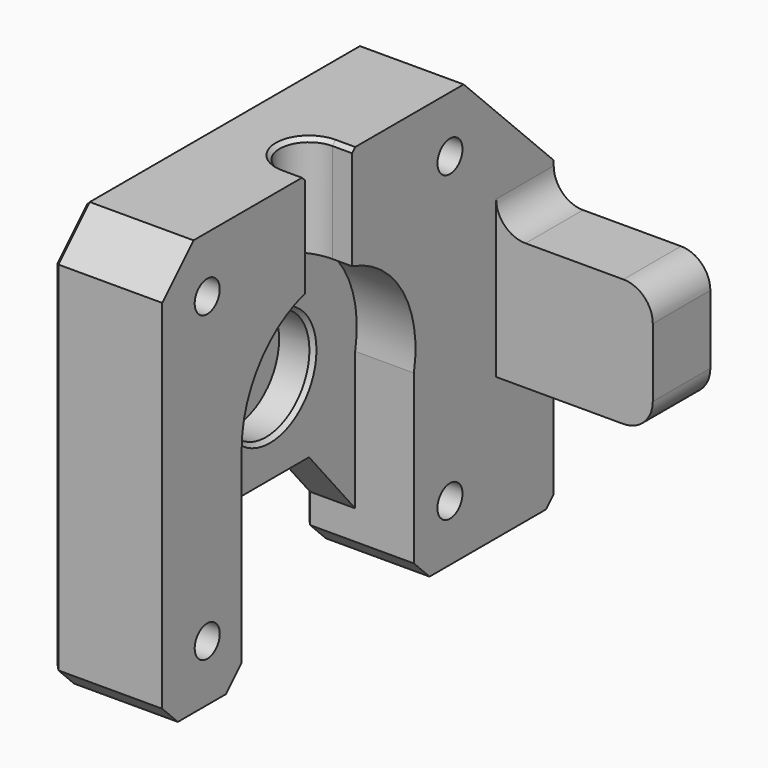
from build123d import *

# Parameters (mm, degrees)
SKETCH018_W        = 50
SKETCH018_H        = 42.5
SKETCH018_R        = 2.75
SKETCH018_R_2      = 1.6
PAD008_DEPTH       = 11
SKETCH027_R        = 3.2
POCKET012_DEPTH    = 15
SKETCH028_R        = 1.6
POCKET013_DEPTH    = 27.501
SKETCH029_W        = 7.35
SKETCH029_H        = 13
PAD009_DEPTH       = 16
POCKET014_DEPTH    = 11.001
FILLET_R           = 3
POCKET015_DEPTH    = 6
POCKET016_DEPTH    = 5.001
CHAMFER003011_SIZE = 4
CHAMFER003012_SIZE = 2
SKETCH033_R        = 1.9
POCKET017_DEPTH    = 6
CHAMFER003013_SIZE = 1
CHAMFER003014_SIZE = 0.4
POCKET020_DEPTH    = 11
CHAMFER003016_SIZE = 0.4
SKETCH038_R        = 5.55
POCKET021_DEPTH    = 3.5
CHAMFER003017_SIZE = 0.4


with BuildPart() as part:
    # Sketch018 → Pad008 (new body)
    with BuildSketch(Plane.YZ):
        with Locations((3.75, 37)):
            Rectangle(SKETCH018_W, SKETCH018_H)
        with Locations((0, 37)):
            Circle(SKETCH018_R, mode=Mode.SUBTRACT)
        with Locations((-15.5, 52.5)):
            Circle(SKETCH018_R_2, mode=Mode.SUBTRACT)
        with Locations((-15.5, 21.5)):
            Circle(SKETCH018_R_2, mode=Mode.SUBTRACT)
        with Locations((15.5, 21.5)):
            Circle(SKETCH018_R_2, mode=Mode.SUBTRACT)
        with Locations((15.5, 52.5)):
            Circle(SKETCH018_R_2, mode=Mode.SUBTRACT)
    extrude(amount=-PAD008_DEPTH)

    # Sketch027 (on Face4 of Pad008) → Pocket012 (cut)
    with BuildSketch(Plane(origin=(0, 0, 58.25), x_dir=(0, -1, 0), z_dir=(0, 0, 1))):
        with Locations((-23.25, -5.5)):
            Circle(SKETCH027_R)
    extrude(amount=-POCKET012_DEPTH, mode=Mode.SUBTRACT)

    # Sketch028 (on Face13 of Pocket012) → Pocket013 (cut, through all)
    with BuildSketch(Plane(origin=(0, 0, 43.25), x_dir=(0, -1, 0), z_dir=(0, 0, 1))):
        with Locations((-23.25, -5.5)):
            Circle(SKETCH028_R)
    extrude(amount=-POCKET013_DEPTH, mode=Mode.SUBTRACT)

    # Sketch029 (on Face4 of Pocket013) → Pad009 (join)
    with BuildSketch(Plane.YZ):
        with Locations((25.075, 36.75)):
            Rectangle(SKETCH029_W, SKETCH029_H)
    extrude(amount=PAD009_DEPTH)

    # Sketch030 (on Face4 of Pad009) → Pocket014 (cut, through all)
    with BuildSketch(Plane.YZ):
        Polygon((17.25, 58.25), (28.75, 46.75), (28.75, 58.25), align=None)
    extrude(amount=-POCKET014_DEPTH, mode=Mode.SUBTRACT)

    # Fillet
    fillet_edges = [part.edges().sort_by_distance(p)[0] for p in [
        (0, 25.075, 43.25),
        (16, 25.075, 43.25),
        (16, 25.075, 30.25),
    ]]
    fillet(fillet_edges, radius=FILLET_R)

    # Sketch031 (on Face1 of Fillet) → Pocket015 (cut)
    with BuildSketch(Plane.YZ):
        with BuildLine():
            ThreePointArc((10.895697, 34.880142), (1.06484, 48.048806), (-11.1, 37))
            Line((-11.1, 37), (-11.1, 15.75))
            Line((-11.1, 15.75), (10.895697, 15.75))
            Line((10.895697, 15.75), (10.895697, 34.880142))
        make_face()
    extrude(amount=-POCKET015_DEPTH, mode=Mode.SUBTRACT)

    # Sketch032 (on Face23 of Pocket015) → Pocket016 (cut, through all)
    with BuildSketch(Plane.YZ.offset(-6)):
        Polygon((-11.1, 15.75), (10.895697, 15.75), (10.895697, 20.75), (5, 27.75), (-5, 27.75), (-11.1, 20.75), align=None)
    extrude(amount=-POCKET016_DEPTH, mode=Mode.SUBTRACT)

    # Chamfer003011
    chamfer003011_edges = [part.edges().sort_by_distance(p)[0] for p in [
        (-5.5, -21.25, 58.25),
    ]]
    chamfer(chamfer003011_edges, length=CHAMFER003011_SIZE)

    # Chamfer003012
    chamfer003012_edges = [part.edges().sort_by_distance(p)[0] for p in [
        (-8.5, 10.895697, 15.75),
        (-8.5, -11.1, 15.75),
        (-5.5, -21.25, 15.75),
    ]]
    chamfer(chamfer003012_edges, length=CHAMFER003012_SIZE)

    # Sketch033 (on Face16 of Chamfer003012) → Pocket017 (cut)
    with BuildSketch(Plane.YX.offset(-15.75)):
        with Locations((23.25, -5.5)):
            Circle(SKETCH033_R)
    extrude(amount=-POCKET017_DEPTH, mode=Mode.SUBTRACT)

    # Chamfer003013
    chamfer003013_edges = [part.edges().sort_by_distance(p)[0] for p in [
        (-5.5, 28.75, 15.75),
    ]]
    chamfer(chamfer003013_edges, length=CHAMFER003013_SIZE)

    # Chamfer003014
    chamfer003014_edges = [part.edges().sort_by_distance(p)[0] for p in [
        (-11, 28.75, 31.75),
        (-11, 28.25, 16.25),
        (-11, 23, 52.5),
        (-11, 20.322848, 15.75),
        (-11, 0, 58.25),
        (-11, 11.895697, 16.75),
        (-11, -19.25, 56.25),
        (-11, 10.895697, 19.25),
        (-11, -21.25, 36),
        (-11, 7.947848, 24.25),
        (-11, -20.25, 16.75),
        (-11, 0, 27.75),
        (-11, -16.175, 15.75),
        (-11, -8.05, 24.25),
        (-11, -12.1, 16.75),
        (-11, -11.1, 19.25),
        (-11, 13.9, 21.5),
        (-11, 13.9, 52.5),
        (-11, -17.1, 21.5),
        (-11, -2.75, 37),
        (-11, -17.1, 52.5),
        (-5.5, 21.35, 15.75),
        (-5.497959, 26.449999, 49.050001),
    ]]
    chamfer(chamfer003014_edges, length=CHAMFER003014_SIZE)

    # Sketch037 (on Face23 of Chamfer003014) → Pocket020 (cut)
    with BuildSketch(Plane(origin=(0, 0, 58.25), x_dir=(0, -1, 0), z_dir=(0, 0, 1))):
        with BuildLine():
            ThreePointArc((-3, -2), (0, -5), (3, -2))
            Line((3, 0), (3, -2))
            Line((-3, 0), (3, 0))
            Line((-3, -2), (-3, 0))
        make_face()
    extrude(amount=-POCKET020_DEPTH, mode=Mode.SUBTRACT)

    # Chamfer003016
    chamfer003016_edges = [part.edges().sort_by_distance(p)[0] for p in [
        (-1, 3, 58.25),
        (-5, 0, 58.25),
        (-1, -3, 58.25),
    ]]
    chamfer(chamfer003016_edges, length=CHAMFER003016_SIZE)

    # Sketch038 (on Face22 of Chamfer003016) → Pocket021 (cut)
    with BuildSketch(Plane.YZ.offset(-6)):
        with Locations((0, 37)):
            Circle(SKETCH038_R)
    extrude(amount=-POCKET021_DEPTH, mode=Mode.SUBTRACT)

    # Chamfer003017
    chamfer003017_edges = [part.edges().sort_by_distance(p)[0] for p in [
        (-6, -5.55, 37),
    ]]
    chamfer(chamfer003017_edges, length=CHAMFER003017_SIZE)


with BuildPart() as part_1:
    # Body005019 placement: moved
    add(part.part.moved(Location((-20, 0, 0))))


solid = part_1.part
